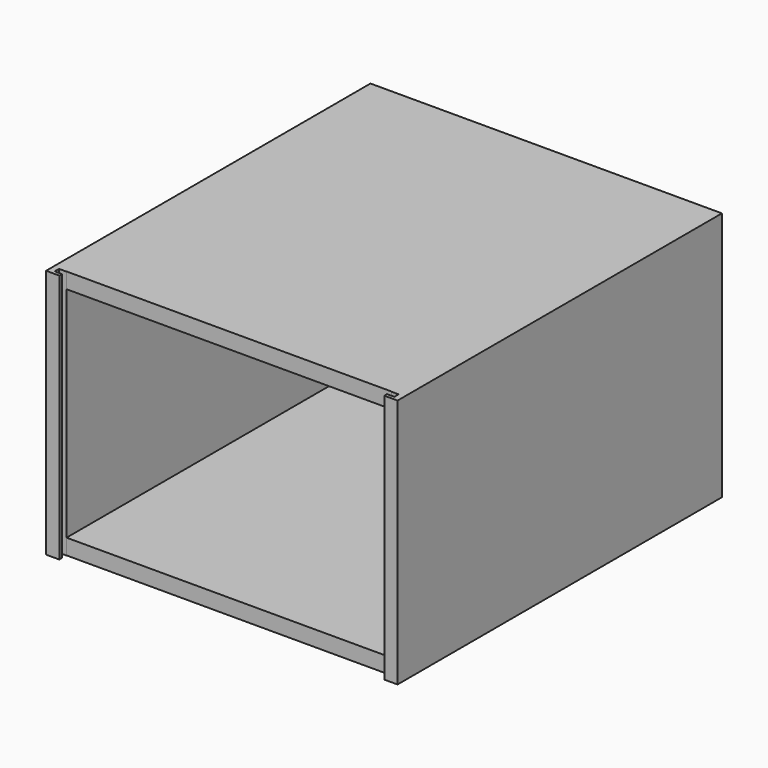
from build123d import *

# Parameters (mm, degrees)
F1_DEPTH = 40.64
F2_W     = 52.832
F2_H     = 2.54
F3_DEPTH = 62.611


with BuildPart() as f1:
    # F0 (on Top) → F1 (new body)
    with BuildSketch(Plane.XY):
        Polygon((0, 31.115), (26.416, 31.115), (26.416, -31.115), (26.416, -31.534594), (27.610166, -31.534594), (27.610166, -32.412026), (26.416, -32.412026), (26.416, -32.963052), (28.571213, -32.963052), (28.571213, 32.963052), (0, 32.963052), align=None)
        Polygon((-26.416, 31.115), (0, 31.115), (0, 32.963052), (-28.571213, 32.963052), (-28.571213, -32.963052), (-26.416, -32.963052), (-26.416, -32.412026), (-27.610166, -32.412026), (-27.610166, -31.534594), (-26.416, -31.534594), (-26.416, -31.115), align=None)
    extrude(amount=F1_DEPTH)

    # F2 (on face) → F3 (join)
    with BuildSketch(Plane.XZ.offset(-31.115)):
        with Locations((0, 1.27)):
            Rectangle(F2_W, F2_H)
        with Locations((0, 39.37)):
            Rectangle(F2_W, F2_H)
    extrude(amount=F3_DEPTH)


solid = f1.part
